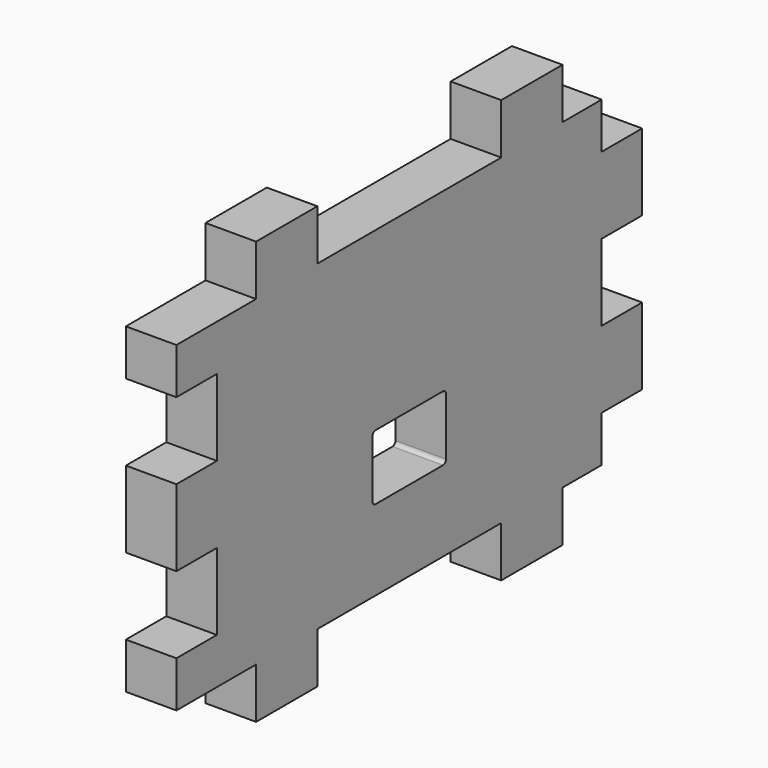
from build123d import *

# Parameters (mm, degrees)
F0_W     = 76
F0_H     = 42
F1_DEPTH = 6.6
F2_W     = 10
F2_H     = 6.6
F3_DEPTH = 6.6
F4_W     = 6.6
F4_H     = 6
F4_H_2   = 10
F5_DEPTH = 6.6
F6_W     = 12
F6_H     = 8.5
F7_DEPTH = 6.6
F8_R     = 0.5


with BuildPart() as f1:
    # F0 (on Right) → F1 (new body)
    with BuildSketch(Plane.YZ):
        Rectangle(F0_W, F0_H)
    extrude(amount=F1_DEPTH)

    # F2 (on face) → F3 (join)
    with BuildSketch(Plane.YZ.offset(6.6)):
        with Locations((-20, 24.3)):
            Rectangle(F2_W, F2_H)
        with Locations((20, 24.3)):
            Rectangle(F2_W, F2_H)
        with Locations((20, -24.3)):
            Rectangle(F2_W, F2_H)
        with Locations((-20, -24.3)):
            Rectangle(F2_W, F2_H)
    extrude(amount=-F3_DEPTH)

    # F4 (on face) → F5 (cut, through all)
    with BuildSketch(Plane.YZ.offset(6.6)):
        with Locations((34.7, 18)):
            Rectangle(F4_W, F4_H)
        with Locations((34.7, -18)):
            Rectangle(F4_W, F4_H)
        with Locations((34.7, 0)):
            Rectangle(F4_W, F4_H_2)
        with Locations((-34.7, 10)):
            Rectangle(F4_W, F4_H_2)
        with Locations((-34.7, -10)):
            Rectangle(F4_W, F4_H_2)
    extrude(amount=-F5_DEPTH, mode=Mode.SUBTRACT)

    # F6 (on face) → F7 (cut, through all)
    with BuildSketch(Plane.YZ.offset(6.6)):
        with Locations((0, -6.25)):
            Rectangle(F6_W, F6_H)
    extrude(amount=-F7_DEPTH, mode=Mode.SUBTRACT)

    # F8
    f8_edges = [f1.edges().sort_by_distance(p)[0] for p in [
        (3.3, -6, -2),
        (3.3, 6, -2),
        (3.3, 6, -10.5),
        (3.3, -6, -10.5),
    ]]
    fillet(f8_edges, radius=F8_R)


solid = f1.part
